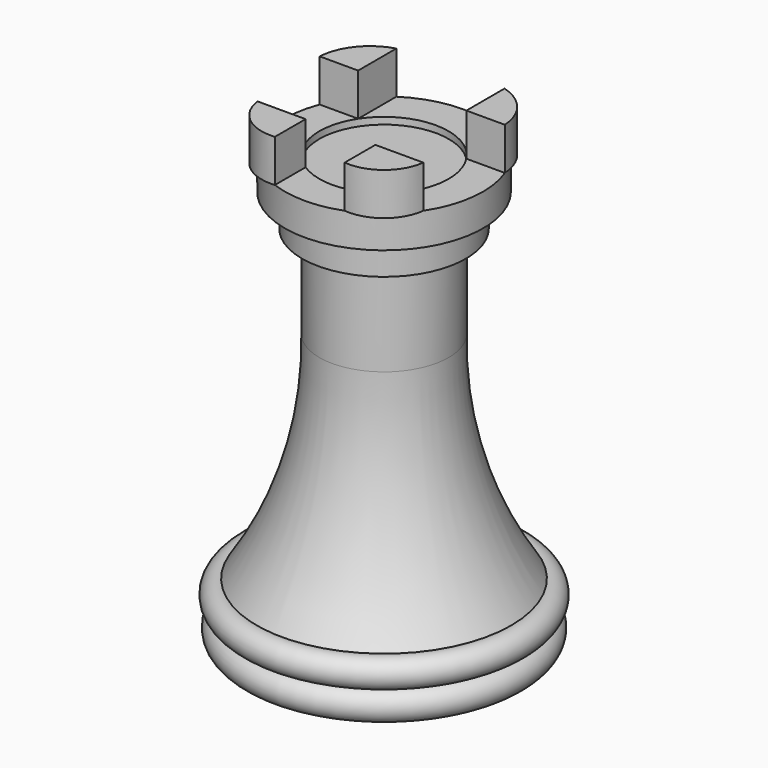
from build123d import *

# Parameters (mm, degrees)
F3_DEPTH = 6.35


with BuildPart() as f1:
    # F0 (on Front) → F1 (revolve)
    with BuildSketch(Plane.XZ):
        with BuildLine():
            Line((0, -40.9728623927), (0, 22.5271376073))
            Line((0, 22.5271376073), (-9.678629227, 22.5271376073))
            Line((-9.678629227, 22.5271376073), (-9.678629227, 23.5513299704))
            Line((-9.678629227, 23.5513299704), (-14.8405646905, 23.5513299704))
            Line((-14.8405646905, 23.5513299704), (-14.8405646905, 18.7120158225))
            Line((-14.8405646905, 18.7120158225), (-12.2595969588, 18.7120158225))
            Line((-12.2595969588, 18.7120158225), (-12.2595969588, 13.8727016747))
            Line((-12.2595969588, 13.8727016747), (-9.678629227, 13.8727016747))
            Line((-9.678629227, 13.8727016747), (-9.678629227, 0))
            ThreePointArc((-9.678629227, 0), (-11.9037436659, -16.8457862544), (-19.05, -32.2620980442))
            ThreePointArc((-19.05, -32.2620980442), (-21.5839524297, -34.1485000378), (-19.4694330371, -36.4954629979))
            ThreePointArc((-19.4694330371, -36.4954629979), (-21.2985011348, -38.9251516038), (-19.05, -40.9728623927))
            Line((-19.05, -40.9728623927), (0, -40.9728623927))
        make_face()
        with BuildLine():
            ThreePointArc((-19.05, -36.4561714232), (-19.2587456633, -36.4861809781), (-19.4694330371, -36.4954629979))
            ThreePointArc((-19.4694330371, -36.4954629979), (-19.2606346959, -36.4660157731), (-19.05, -36.4561714232))
        make_face(mode=Mode.SUBTRACT)
        with BuildLine():
            ThreePointArc((-19.05, -36.4561714232), (-19.2606346959, -36.4660157731), (-19.4694330371, -36.4954629979))
            ThreePointArc((-19.4694330371, -36.4954629979), (-19.2587456633, -36.4861809781), (-19.05, -36.4561714232))
        make_face()
    revolve(axis=Axis((0, 0, -8.7107662112), (0, 0, -1)))

    # F2 (on face) → F3 (join)
    with BuildSketch(Plane.XY.offset(23.5513299704)):
        with BuildLine():
            ThreePointArc((-8.1056099237, 12.4314700699), (-12.1238083174, 9.7781050365), (-13.866052389, 5.2891352298))
            Line((-13.866052389, 5.2891352298), (-8.1056099237, 5.2891352298))
            Line((-8.1056099237, 5.2891352298), (-8.1056099237, 12.4314700699))
        make_face()
        with BuildLine():
            ThreePointArc((13.866052389, 5.2891352298), (12.1238083174, 9.7781050365), (8.1056099237, 12.4314700699))
            Line((8.1056099237, 12.4314700699), (8.1056099237, 5.2891352298))
            Line((8.1056099237, 5.2891352298), (13.866052389, 5.2891352298))
        make_face()
        with BuildLine():
            Line((-5.223849041, -8.1478380513), (-12.4038339002, -8.1478380513))
            ThreePointArc((-12.4038339002, -8.1478380513), (-9.9855729668, -12.4842400833), (-5.223849041, -13.8907797308))
            Line((-5.223849041, -13.8907797308), (-5.223849041, -8.1478380513))
        make_face()
        with BuildLine():
            ThreePointArc((5.223849041, -13.8907797308), (9.9855729668, -12.4842400833), (12.4038339002, -8.1478380513))
            Line((12.4038339002, -8.1478380513), (5.223849041, -8.1478380513))
            Line((5.223849041, -8.1478380513), (5.223849041, -13.8907797308))
        make_face()
    extrude(amount=F3_DEPTH)


solid = f1.part
